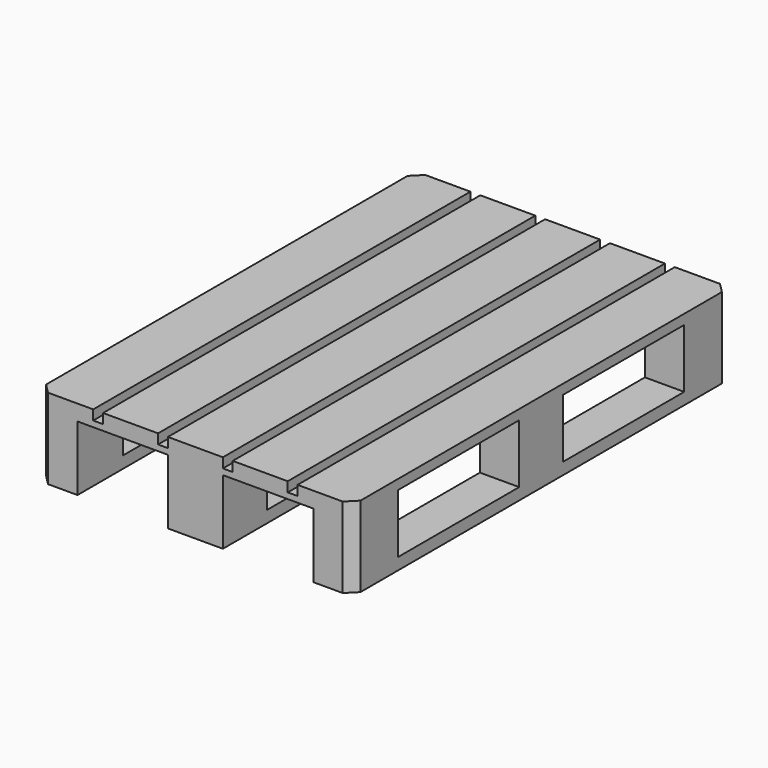
from build123d import *

# Parameters (mm, degrees)
F0_W      = 2.8
F0_H      = 24
F1_DEPTH  = 0.5
F3_W      = 16
F3_H      = 2.8
F4_DEPTH  = 0.3
F2_W      = 2
F2_H      = 2.9
F5_DEPTH  = 3
F6_W      = 2
F6_H      = 2.8
F7_DEPTH  = 2.7
F9_W      = 2.8
F9_H      = 2.8
F10_DEPTH = 2.7
F11_W     = 2
F11_H     = 24
F11_W_2   = 2.8
F12_DEPTH = 0.6
F14_SIZE  = 0.5


with BuildPart() as f1:
    # F0 (on Top) → F1 (new body)
    with BuildSketch(Plane.XY):
        with Locations((1.4, 12)):
            Rectangle(F0_W, F0_H)
        with Locations((4.7, 12)):
            Rectangle(F0_W, F0_H)
        with Locations((8, 12)):
            Rectangle(F0_W, F0_H)
        with Locations((11.3, 12)):
            Rectangle(F0_W, F0_H)
        with Locations((14.6, 12)):
            Rectangle(F0_W, F0_H)
    extrude(amount=F1_DEPTH)


with BuildPart() as f4:
    # F3 (on face) → F4 (new body)
    with BuildSketch(Plane(origin=(0, 0, 0), x_dir=(1, 0, 0), z_dir=(0, 0, -1))):
        with Locations((8, -1.4)):
            Rectangle(F3_W, F3_H)
        with Locations((8, -22.6)):
            Rectangle(F3_W, F3_H)
        with Locations((8, -12)):
            Rectangle(F3_W, F3_H)
    extrude(amount=F4_DEPTH)

    # F6 (on face) → F7 (join)
    with BuildSketch(Plane(origin=(0, 0, -0.3), x_dir=(1, 0, 0), z_dir=(0, 0, -1))):
        with Locations((1, -12)):
            Rectangle(F6_W, F6_H)
        with Locations((15, -12)):
            Rectangle(F6_W, F6_H)
    extrude(amount=F7_DEPTH)


with BuildPart() as f5:
    # F2 (on face) → F5 (new body)
    with BuildSketch(Plane(origin=(0, 0, 0), x_dir=(1, 0, 0), z_dir=(0, 0, -1))):
        with Locations((1, -1.45)):
            Rectangle(F2_W, F2_H)
        with Locations((1, -22.55)):
            Rectangle(F2_W, F2_H)
        with Locations((15, -1.45)):
            Rectangle(F2_W, F2_H)
        with Locations((15, -22.55)):
            Rectangle(F2_W, F2_H)
    extrude(amount=F5_DEPTH)


with BuildPart() as f10:
    # F9 (on face) → F10 (new body)
    with BuildSketch(Plane(origin=(0, 0, -0.3), x_dir=(1, 0, 0), z_dir=(0, 0, -1))):
        with Locations((8, -1.4)):
            Rectangle(F9_W, F9_H)
        with Locations((8, -22.6)):
            Rectangle(F9_W, F9_H)
        with Locations((8, -12)):
            Rectangle(F9_W, F9_H)
    extrude(amount=F10_DEPTH)


with BuildPart() as f12:
    # F11 (on face) → F12 (new body)
    with BuildSketch(Plane(origin=(0, 0, -3), x_dir=(1, 0, 0), z_dir=(0, 0, -1))):
        with Locations((1, -12)):
            Rectangle(F11_W, F11_H)
        with Locations((8, -12)):
            Rectangle(F11_W_2, F11_H)
        with Locations((15, -12)):
            Rectangle(F11_W, F11_H)
    extrude(amount=F12_DEPTH)


with BuildPart() as f1_1:
    add(f1.part)

    # F13: union F4, F5, F10, F12
    add(f4.part)
    add(f5.part)
    add(f10.part)
    add(f12.part)

    # F14
    f14_edges = [f1_1.edges().sort_by_distance(p)[0] for p in [
        (0, 24, -1.55),
        (16, 24, -1.55),
        (0, 0, -1.55),
        (16, 0, -1.55),
    ]]
    chamfer(f14_edges, length=F14_SIZE)


solid = f1_1.part
